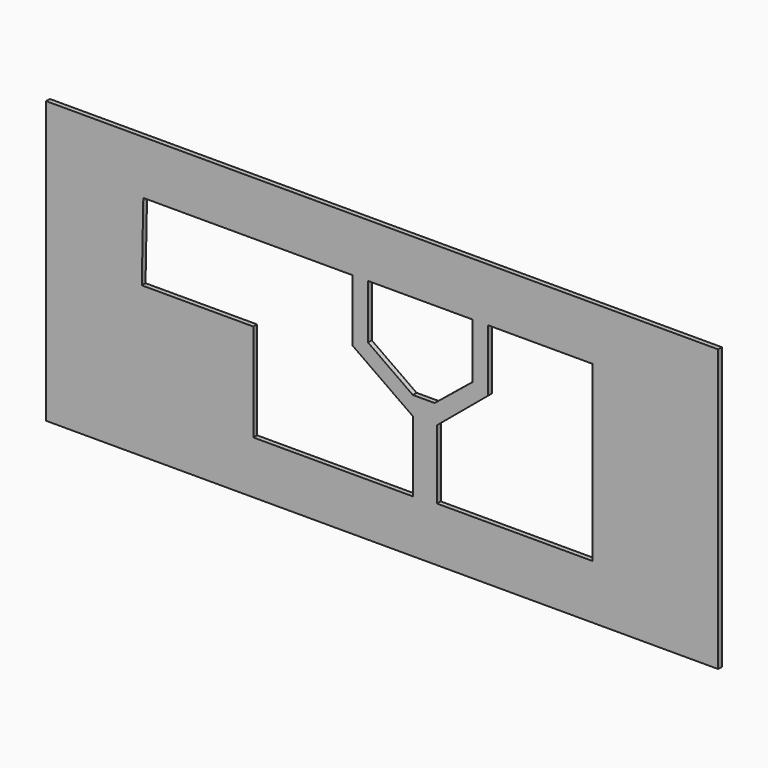
from build123d import *

# Parameters (mm, degrees)
F0_W     = 714
F0_H     = 5
F1_DEPTH = 299
F3_DEPTH = 5


with BuildPart() as f1:
    # F0 (on Top) → F1 (new body)
    with BuildSketch(Plane.XY):
        with Locations((-309.6842, 25.296053)):
            Rectangle(F0_W, F0_H)
    extrude(amount=F1_DEPTH)

    # F2 (on face) → F3 (cut)
    with BuildSketch(Plane.XZ.offset(-22.796053)):
        Polygon((-341.119349, 242.06914), (-563.389421, 242.06914), (-565.03582, 159.7469), (-446.491808, 159.7469), (-446.491808, 56.020867), (-276.90798, 56.020867), (-276.90798, 130.934104), (-341.119349, 176.211342), align=None)
        Polygon((-213.519856, 242.06914), (-324.654877, 242.06914), (-324.654877, 184.443563), (-277.030347, 150.862171), (-253.857762, 150.862171), (-213.519856, 183.620349), align=None)
        Polygon((-85.920371, 242.06914), (-197.055414, 242.06914), (-197.055414, 176.211342), (-251.388103, 130.934104), (-251.388103, 57.667315), (-85.920371, 57.667315), align=None)
    extrude(amount=-F3_DEPTH, mode=Mode.SUBTRACT)


solid = f1.part
